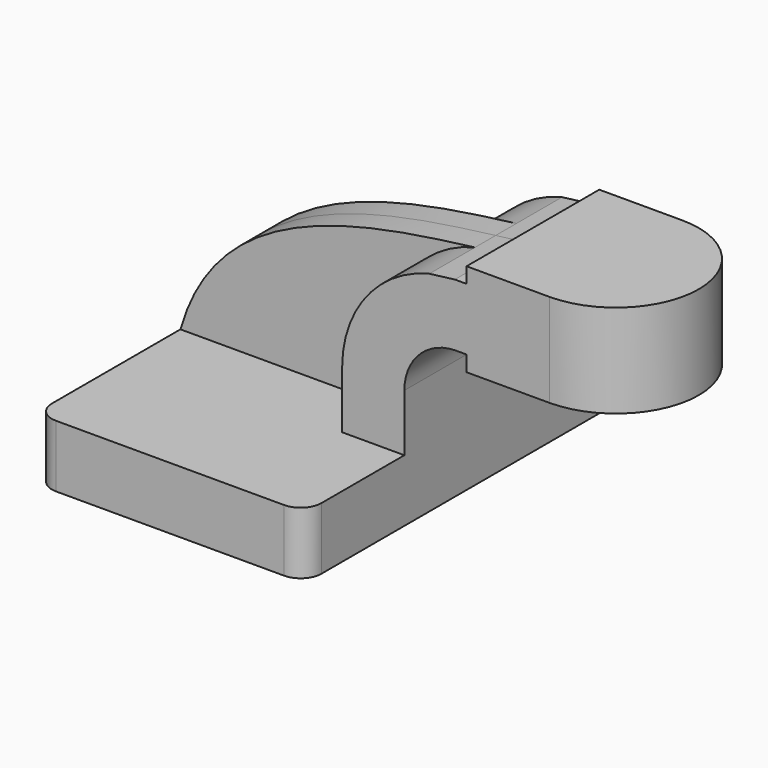
from build123d import *

# Parameters (mm, degrees)
F1_DEPTH = 63.5
F2_DEPTH = 25.4
F3_DEPTH = 7.9375
F0_W     = 25.4
F0_H     = 28.575
F5_R     = 6.35


with BuildPart() as f1:
    # F0 (on Front) → F1 (new body, symmetric)
    with BuildSketch(Plane.XZ):
        Polygon((41.275, -9.525), (41.275, 9.525), (22.225, 9.525), (-41.275, 9.525), (-41.275, -9.525), align=None)
    extrude(amount=F1_DEPTH, both=True)

    # F0 (on Front) → F2 (join, symmetric)
    with BuildSketch(Plane.XZ):
        with BuildLine():
            Line((22.225, 9.525), (41.275, 9.525))
            Line((41.275, 9.525), (41.275, 27.00272))
            ThreePointArc((41.275, 27.00272), (45.825119, 38.127588), (56.867151, 42.8752))
            Line((56.867151, 42.8752), (60.325, 42.8752))
            Line((60.325, 42.8752), (60.325, 61.9252))
            Line((60.325, 61.9252), (56.730458, 61.9252))
            add(Edge.make_bspline(
                [(48.933699, 60.947499), (51.581091, 61.280162), (54.185468, 61.601631), (56.730458, 61.9252)],
                knots=[103.418833, 103.418833, 103.418833, 103.418833, 111.134381, 111.134381, 111.134381, 111.134381], degree=3))
            ThreePointArc((48.933699, 60.947499), (29.702687, 48.599031), (22.225, 27.00272))
            Line((22.225, 27.00272), (22.225, 9.525))
        make_face()
        Polygon((60.325, 61.9252), (60.325, 42.8752), (60.325, 38.1), (85.725, 38.1), (85.725, 66.675), (60.325, 66.675), align=None)
    extrude(amount=F2_DEPTH, both=True)

    # F0 (on Front) → F3 (join, symmetric)
    with BuildSketch(Plane.XZ):
        with BuildLine():
            Line((-41.275, 9.525), (22.225, 9.525))
            Line((22.225, 9.525), (22.225, 27.00272))
            ThreePointArc((22.225, 27.00272), (29.702687, 48.599031), (48.933699, 60.947499))
            add(Edge.make_bspline(
                [(-41.275, 9.525), (-29.76549, 50.018415), (13.44819, 56.488502), (48.933699, 60.947499)],
                knots=[0, 0, 0, 0, 103.418833, 103.418833, 103.418833, 103.418833], degree=3))
        make_face()
    extrude(amount=F3_DEPTH, both=True)

    # F0 (on Front) → F4 (revolve)
    with BuildSketch(Plane.XZ):
        with Locations((98.425, 52.3875)):
            Rectangle(F0_W, F0_H)
    revolve(axis=Axis((85.725, 0, 52.3875), (0, 0, -1)))

    # F5
    f5_edges = [f1.edges().sort_by_distance(p)[0] for p in [
        (-41.275, -63.5, 0),
        (41.275, -63.5, 0),
        (41.275, 63.5, 0),
        (-41.275, 63.5, 0),
    ]]
    fillet(f5_edges, radius=F5_R)


solid = f1.part
